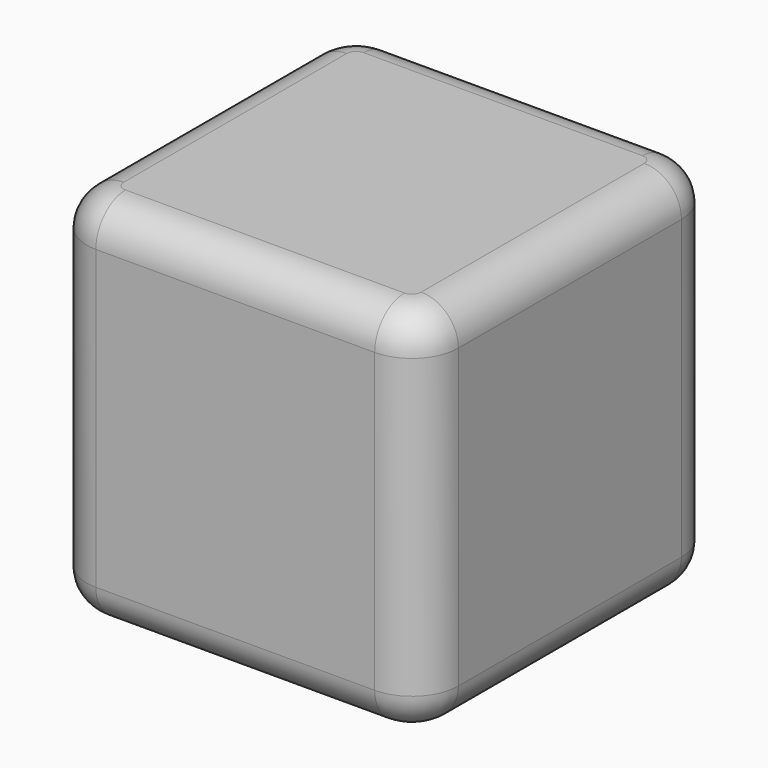
from build123d import *

# Parameters (mm, degrees)
F1_DEPTH = 50.8
F2_R     = 5.08
F3_R     = 5.08


with BuildPart() as f1:
    # F0 (on Top) → F1 (new body)
    with BuildSketch(Plane.XY):
        with BuildLine():
            ThreePointArc((25.4, 19.05), (23.540128, 23.540128), (19.05, 25.4))
            Line((19.05, 25.4), (-19.05, 25.4))
            ThreePointArc((-19.05, 25.4), (-23.540128, 23.540128), (-25.4, 19.05))
            Line((-25.4, 19.05), (-25.4, -19.05))
            ThreePointArc((-25.4, -19.05), (-23.540128, -23.540128), (-19.05, -25.4))
            Line((-19.05, -25.4), (19.05, -25.4))
            ThreePointArc((19.05, -25.4), (23.540128, -23.540128), (25.4, -19.05))
            Line((25.4, -19.05), (25.4, 19.05))
        make_face()
    extrude(amount=F1_DEPTH)

    # F2
    f2_edges = [f1.edges().sort_by_distance(p)[0] for p in [
        (0, -25.4, 50.8),
    ]]
    fillet(f2_edges, radius=F2_R)

    # F3
    f3_edges = [f1.edges().sort_by_distance(p)[0] for p in [
        (0, -25.4, 0),
    ]]
    fillet(f3_edges, radius=F3_R)


solid = f1.part
